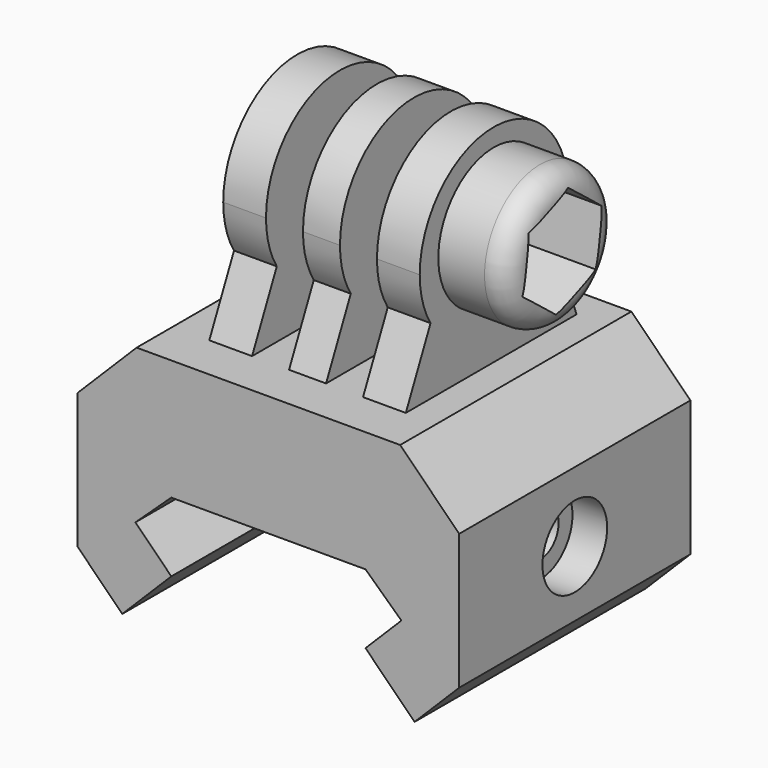
from build123d import *

# Parameters (mm, degrees)
F1_DEPTH  = 25
F2_W      = 7.596032
F2_H      = 21.10009
F2_W_2    = 10.268714
F2_H_2    = 30.102797
F3_DEPTH  = 25
F4_R      = 2
F5_DEPTH  = 35
F6_R      = 3.5
F7_DEPTH  = 3
F9_DEPTH  = 3
F10_W     = 17
F10_H     = 18.460938
F11_DEPTH = 18
F12_W     = 3.2
F12_H     = 18.460938
F13_DEPTH = 18
F15_DEPTH = 25
F16_R     = 2.6
F17_DEPTH = 25
F18_R     = 6
F19_DEPTH = 6
F20_R     = 2
F22_DEPTH = 6


with BuildPart() as f1:
    # F0 (on Front) → F1 (new body)
    with BuildSketch(Plane.XZ):
        Polygon((-11.404762, -2.895238), (-8.3, 0), (8.5, 0), (11.604762, -2.895238), (8.5, -6), (12.742641, -10.242641), (22.464761, -0.520521), (11.5, 10.44424), (-11.3, 10.44424), (-22.264761, -0.520521), (-12.542641, -10.242641), (-8.3, -6), align=None)
    extrude(amount=F1_DEPTH)

    # F2 (on face) → F3 (cut)
    with BuildSketch(Plane.XZ.offset(25)):
        with Locations((-20.202778, -0.557668)):
            Rectangle(F2_W, F2_H)
        with Locations((21.739119, -1.542339)):
            Rectangle(F2_W_2, F2_H_2)
    extrude(amount=-F3_DEPTH, mode=Mode.SUBTRACT)

    # F4 (on face) → F5 (cut)
    with BuildSketch(Plane.YZ.offset(16.604762)):
        with Locations((-12.5, -0.695238)):
            Circle(F4_R)
    extrude(amount=-F5_DEPTH, mode=Mode.SUBTRACT)

    # F6 (on face) → F7 (cut)
    with BuildSketch(Plane.YZ.offset(16.604762)):
        with Locations((-12.5, -0.695238)):
            Circle(F6_R)
    extrude(amount=-F7_DEPTH, mode=Mode.SUBTRACT)

    # F8 (on face) → F9 (cut)
    with BuildSketch(Plane(origin=(-16.404762, 0, 0), x_dir=(0, -1, 0), z_dir=(-1, 0, 0))):
        Polygon((15.321942, -3.588329), (16.416462, 0.30209), (13.59452, 3.195181), (9.678058, 2.197854), (8.583538, -1.692565), (11.40548, -4.585657), align=None)
    extrude(amount=-F9_DEPTH, mode=Mode.SUBTRACT)

    # F10 (on face) → F11 (join)
    with BuildSketch(Plane.XY.offset(10.44424)):
        with Locations((0.3675, -11.870001)):
            Rectangle(F10_W, F10_H)
    extrude(amount=F11_DEPTH)

    # F12 (on face) → F13 (cut)
    with BuildSketch(Plane.XY.offset(28.44424)):
        with Locations((-2.8325, -11.870001)):
            Rectangle(F12_W, F12_H)
        with Locations((3.5675, -11.870001)):
            Rectangle(F12_W, F12_H)
    extrude(amount=-F13_DEPTH, mode=Mode.SUBTRACT)

    # F14 (on face) → F15 (cut)
    with BuildSketch(Plane(origin=(-8.1325, 0, 0), x_dir=(0, -1, 0), z_dir=(-1, 0, 0))):
        with BuildLine():
            ThreePointArc((4.763152, 16.192717), (9.433907, 28.057198), (19.595274, 20.354699))
            ThreePointArc((19.595274, 20.354699), (19.297773, 18.193332), (18.427397, 16.192717))
            Line((18.427397, 16.192717), (21.10047, 10.44424))
            Line((21.10047, 10.44424), (21.10047, 28.44424))
            Line((21.10047, 28.44424), (2.639532, 28.44424))
            Line((2.639532, 28.44424), (2.639532, 10.44424))
            Line((2.639532, 10.44424), (4.763152, 16.192717))
        make_face()
    extrude(amount=-F15_DEPTH, mode=Mode.SUBTRACT)

    # F16 (on face) → F17 (cut)
    with BuildSketch(Plane(origin=(-8.1325, 0, 0), x_dir=(0, -1, 0), z_dir=(-1, 0, 0))):
        with Locations((11.587898, 20.803435)):
            Circle(F16_R)
    extrude(amount=-F17_DEPTH, mode=Mode.SUBTRACT)

    # F18 (on face) → F19 (join)
    with BuildSketch(Plane.YZ.offset(8.8675)):
        with Locations((-11.587898, 20.803435)):
            Circle(F18_R)
    extrude(amount=F19_DEPTH)

    # F20
    f20_edges = [f1.edges().sort_by_distance(p)[0] for p in [
        (14.8675, -17.587898, 20.803435),
    ]]
    fillet(f20_edges, radius=F20_R)

    # F21 (on face) → F22 (cut)
    with BuildSketch(Plane.YZ.offset(14.8675)):
        Polygon((-12.239687, 16.230853), (-7.95382, 17.952679), (-7.302032, 22.525261), (-10.93611, 25.376017), (-15.221976, 23.654191), (-15.873764, 19.081609), align=None)
    extrude(amount=-F22_DEPTH, mode=Mode.SUBTRACT)


solid = f1.part
